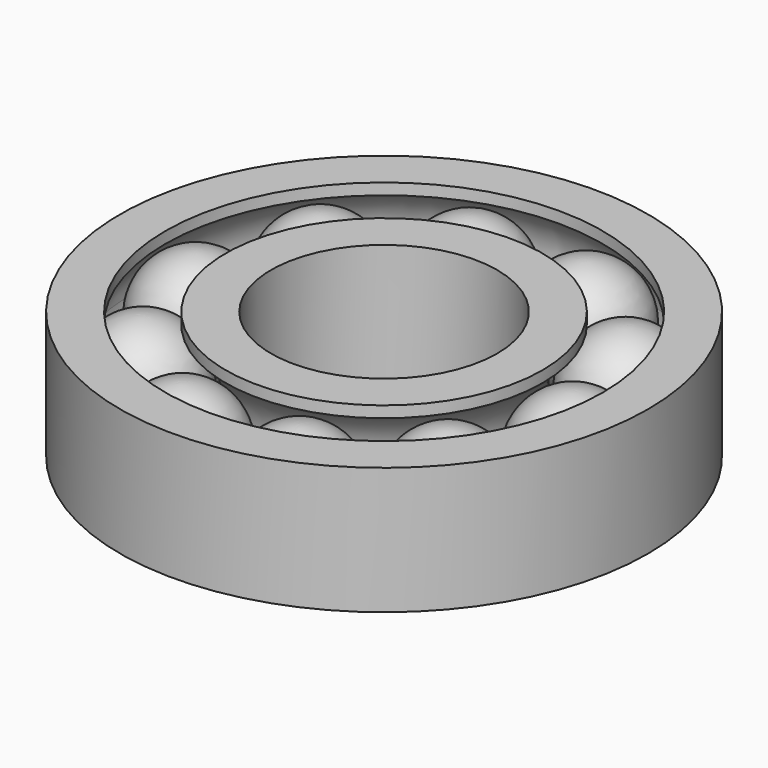
from build123d import *

# Parameters (mm, degrees)
F3_COUNT = 10


with BuildPart() as f1:
    # F0 (on Front) → F1 (revolve)
    with BuildSketch(Plane.XZ):
        with BuildLine():
            ThreePointArc((25, -7.5), (30.303301, -5.303301), (32.5, 0))
            ThreePointArc((32.5, 0), (30.303301, 5.303301), (25, 7.5))
            Line((25, 7.5), (25, -7.5))
        make_face()
    revolve(axis=Axis((25, 0, 0), (0, 0, 1)))


with BuildPart() as f2:
    # F0 (on Front) → F2 (revolve)
    with BuildSketch(Plane.XZ):
        with BuildLine():
            ThreePointArc((21, -6.928203), (17, 0), (21, 6.928203))
            Line((21, 6.928203), (21, 8.428203))
            Line((21, 8.428203), (15, 8.428203))
            Line((15, 8.428203), (15, -8.428203))
            Line((15, -8.428203), (21, -8.428203))
            Line((21, -8.428203), (21, -6.928203))
        make_face()
        with BuildLine():
            ThreePointArc((29, 6.928203), (31.928203, 4), (33, 0))
            ThreePointArc((33, 0), (31.928203, -4), (29, -6.928203))
            Line((29, -6.928203), (29, -8.428203))
            Line((29, -8.428203), (35, -8.428203))
            Line((35, -8.428203), (35, 8.428203))
            Line((35, 8.428203), (29, 8.428203))
            Line((29, 8.428203), (29, 6.928203))
        make_face()
    revolve(axis=Axis((0, 0, 0), (0, 0, 1)))


with BuildPart() as f3_1:
    # F3: instance of F1
    add(f1.part.rotate(Axis((0, 0, 8.428203), (0, 0, 1)), 1 * 360 / F3_COUNT))


with BuildPart() as f3_2:
    # F3: instance of F1
    add(f1.part.rotate(Axis((0, 0, 8.428203), (0, 0, 1)), 2 * 360 / F3_COUNT))


with BuildPart() as f3_3:
    # F3: instance of F1
    add(f1.part.rotate(Axis((0, 0, 8.428203), (0, 0, 1)), 3 * 360 / F3_COUNT))


with BuildPart() as f3_4:
    # F3: instance of F1
    add(f1.part.rotate(Axis((0, 0, 8.428203), (0, 0, 1)), 4 * 360 / F3_COUNT))


with BuildPart() as f3_5:
    # F3: instance of F1
    add(f1.part.rotate(Axis((0, 0, 8.428203), (0, 0, 1)), 5 * 360 / F3_COUNT))


with BuildPart() as f3_6:
    # F3: instance of F1
    add(f1.part.rotate(Axis((0, 0, 8.428203), (0, 0, 1)), 6 * 360 / F3_COUNT))


with BuildPart() as f3_7:
    # F3: instance of F1
    add(f1.part.rotate(Axis((0, 0, 8.428203), (0, 0, 1)), 7 * 360 / F3_COUNT))


with BuildPart() as f3_8:
    # F3: instance of F1
    add(f1.part.rotate(Axis((0, 0, 8.428203), (0, 0, 1)), 8 * 360 / F3_COUNT))


with BuildPart() as f3_9:
    # F3: instance of F1
    add(f1.part.rotate(Axis((0, 0, 8.428203), (0, 0, 1)), 9 * 360 / F3_COUNT))


solid = Compound([f1.part, f2.part, f3_1.part, f3_2.part, f3_3.part, f3_4.part, f3_5.part, f3_6.part, f3_7.part, f3_8.part, f3_9.part])
